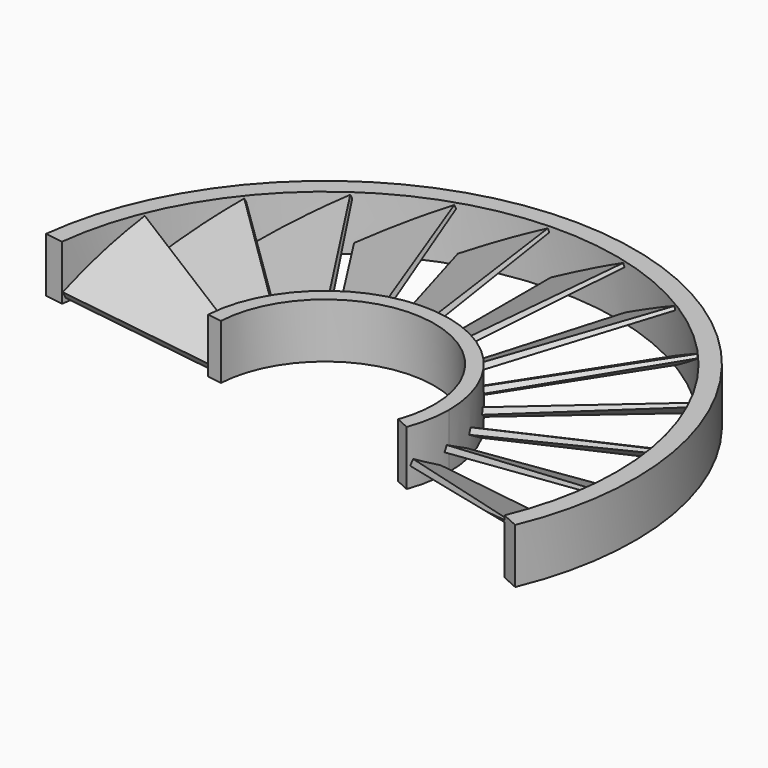
from build123d import *

# Parameters (mm, degrees)
PAD037_DEPTH              = 200
TUBE039_R                 = 100
TUBE039_R_2               = 80
TUBE039_DEPTH             = 200
PAD038_DEPTH              = 100
PAD039_DEPTH              = 2
COMMON018_PLACEMENT_ANGLE = 28
ARRAY016_COUNT            = 22
ARRAY016_PLACEMENT_ANGLE  = 180
TUBE040_R                 = 85
TUBE040_R_2               = 80
TUBE040_DEPTH             = 15
TUBE041_R                 = 34
TUBE041_R_2               = 30
TUBE041_DEPTH             = 15


with BuildPart() as body038:
    # Sketch037 → Pad037 (new body)
    with BuildSketch(Plane.XY):
        Polygon((-29.110853, 1.584928), (-96.197479, 11.61747), (-96.197479, -126.516327), (86.349205, -133.978043), (86.349205, -36.423061), (25.978256, -9.215396), align=None)
    extrude(amount=PAD037_DEPTH)


with BuildPart() as tube039:
    # Tube039 → Tube039 (new body)
    with BuildSketch(Plane.XY):
        Circle(TUBE039_R)
        Circle(TUBE039_R_2, mode=Mode.SUBTRACT)
    extrude(amount=TUBE039_DEPTH)


with BuildPart() as body039:
    # Sketch038 → Pad038 (new body)
    with BuildSketch(Plane.XZ):
        Polygon((0, 0), (0, 2), (26, 0.9), (26, 0), align=None)
    extrude(amount=PAD038_DEPTH)


with BuildPart() as body039_1:
    # Body039 placement: moved
    add(body039.part.moved(Location((-5, 0, 5))))


with BuildPart() as cut012:
    # Sketch039 → Pad039 (new body)
    with BuildSketch(Plane.XY):
        Polygon((0, 0), (0, -52), (25.94305, -47.924315), (8.5, 0), align=None)
    extrude(amount=PAD039_DEPTH)


with BuildPart() as cut012_1:
    # Body040 placement: moved
    add(cut012.part.moved(Location((-5, -33, 5))))

    # Common018: intersect Body039
    add(body039_1.part, mode=Mode.INTERSECT)


with BuildPart() as cut012_2:
    # Common018 placement: moved
    add(cut012_1.part.rotate(Axis((0, 0, 0), (0, 1, 0)), COMMON018_PLACEMENT_ANGLE))

    # Array016: Cut012 ×22 about axis
    array016_axis = Axis((0, 0, 0), (0, 0, 1))


with BuildPart() as cut012_3:
    add(cut012_2.part)
    for i in range(1, ARRAY016_COUNT):
        add(cut012_2.part.rotate(array016_axis, i * 360 / ARRAY016_COUNT))


with BuildPart() as cut012_4:
    # Array016 placement: moved
    add(cut012_3.part.moved(Location((0, 0, 78))).rotate(Axis((0, 0, 78), (0, 1, 0)), ARRAY016_PLACEMENT_ANGLE))

    # Cut012: cut Tube039
    add(tube039.part, mode=Mode.SUBTRACT)


with BuildPart() as tube040:
    # Tube040 → Tube040 (new body)
    with BuildSketch(Plane.XY.offset(68.5)):
        Circle(TUBE040_R)
        Circle(TUBE040_R_2, mode=Mode.SUBTRACT)
    extrude(amount=TUBE040_DEPTH)


with BuildPart() as stator2h2:
    # Tube041 → Tube041 (new body)
    with BuildSketch(Plane.XY.offset(68.5)):
        Circle(TUBE041_R)
        Circle(TUBE041_R_2, mode=Mode.SUBTRACT)
    extrude(amount=TUBE041_DEPTH)

    # Fusion018: union Cut012, Tube040
    add(cut012_4.part)
    add(tube040.part)

    # Cut013: cut Body038
    add(body038.part, mode=Mode.SUBTRACT)


solid = stator2h2.part
